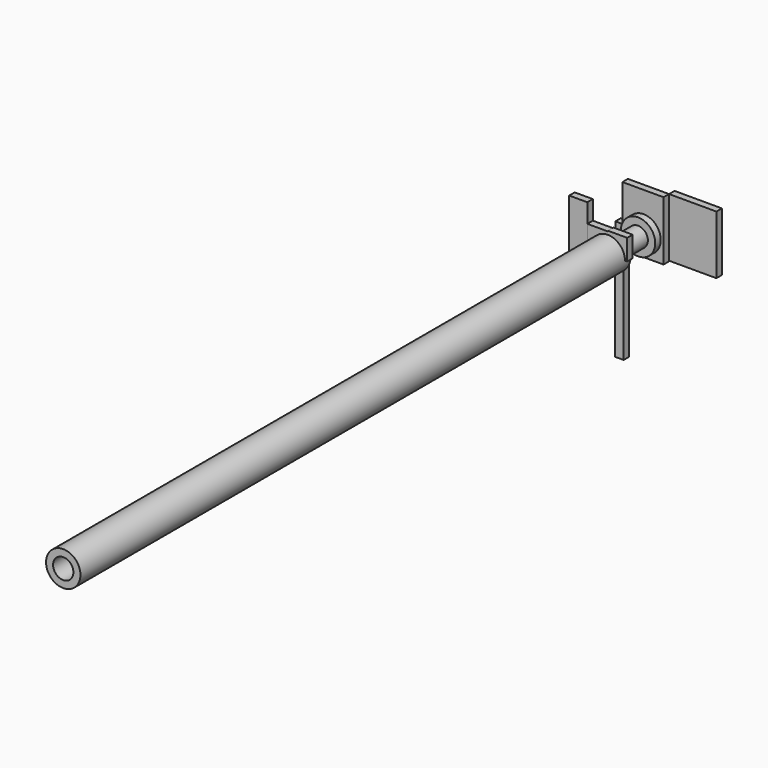
from build123d import *

# Parameters (mm, degrees)
F0_R      = 63.5
F1_DEPTH  = 2540
F2_R      = 37.498798
F3_DEPTH  = 2540.001
F4_R      = 37.498798
F5_DEPTH  = 25.4
F6_R      = 35.790609
F7_DEPTH  = 25.4
F8_R      = 36.398769
F8_R_2    = 36.35133
F8_R_3    = 35.790609
F8_R_4    = 2.350896
F8_R_5    = 3.599335
F9_DEPTH  = 88.995427
F10_R     = 63.5
F11_DEPTH = 25.4
F15_W     = 75.628899
F15_H     = 96.870379
F16_DEPTH = 25.4
F17_W     = 71.739011
F17_H     = 76.93696
F18_DEPTH = 25.4
F19_W     = 66.671423
F19_H     = 220.084563
F20_DEPTH = 25.4
F21_W     = 151.817322
F21_H     = 218.985304
F22_DEPTH = 25.4
F23_W     = 175.12086
F23_H     = 216.846026
F24_DEPTH = 25.4
F25_W     = 32.548204
F25_H     = 368.294932
F26_DEPTH = 25.4
F27_W     = 46.512127
F27_H     = 65.749884
F28_DEPTH = 25.4
F29_W     = 46.512127
F29_H     = 8.113734
F30_DEPTH = 25.4


with BuildPart() as f1:
    # F0 (on Front) → F1 (new body)
    with BuildSketch(Plane.XZ):
        Circle(F0_R)
    extrude(amount=F1_DEPTH)

    # F2 (on face) → F3 (cut, through all)
    with BuildSketch(Plane(origin=(0, 0, 0), x_dir=(-1, 0, 0), z_dir=(0, 1, 0))):
        Circle(F2_R)
    extrude(amount=-F3_DEPTH, mode=Mode.SUBTRACT)

    # F4 (on face) → F5 (join)
    with BuildSketch(Plane(origin=(0, 0, 0), x_dir=(-1, 0, 0), z_dir=(0, 1, 0))):
        Circle(F4_R)
    extrude(amount=-F5_DEPTH)

    # F6 (on face) → F7 (join)
    with BuildSketch(Plane(origin=(0, 0, 0), x_dir=(-1, 0, 0), z_dir=(0, 1, 0))):
        Circle(F6_R)
    extrude(amount=F7_DEPTH)

    # F8 (on face) → F9 (join)
    with BuildSketch(Plane(origin=(0, 25.4, 0), x_dir=(-1, 0, 0), z_dir=(0, 1, 0))):
        Circle(F8_R)
        Circle(F8_R_2, mode=Mode.SUBTRACT)
        Circle(F8_R_3)
        with Locations((-7.241368, -3.599335)):
            Circle(F8_R_4, mode=Mode.SUBTRACT)
        with Locations((0, -3.599335)):
            Circle(F8_R_5, mode=Mode.SUBTRACT)
    extrude(amount=F9_DEPTH)

    # F10 (on face) → F11 (join)
    with BuildSketch(Plane(origin=(0, 114.395427, 0), x_dir=(-1, 0, 0), z_dir=(0, 1, 0))):
        Circle(F10_R)
    extrude(amount=F11_DEPTH)

    # F15 (on face) → F16 (join)
    with BuildSketch(Plane.XZ):
        with Locations((-37.814449, 26.126942)):
            Rectangle(F15_W, F15_H)
    extrude(amount=F16_DEPTH)

    # F17 (on face) → F18 (join)
    with BuildSketch(Plane.XZ):
        with Locations((35.869505, 38.46848)):
            Rectangle(F17_W, F17_H)
    extrude(amount=F18_DEPTH)

    # F21 (on face) → F22 (join)
    with BuildSketch(Plane(origin=(0, 139.795427, 0), x_dir=(-1, 0, 0), z_dir=(0, 1, 0))):
        with Locations((2.101943, 33.055253)):
            Rectangle(F21_W, F21_H)
    extrude(amount=F22_DEPTH)


with BuildPart() as f20:
    # F19 (on Front) → F20 (new body)
    with BuildSketch(Plane.XZ):
        with Locations((-109.109718, 34.777902)):
            Rectangle(F19_W, F19_H)
    extrude(amount=F20_DEPTH)


with BuildPart() as f24:
    # F23 (on face) → F24 (new body)
    with BuildSketch(Plane(origin=(0, 165.195427, 0), x_dir=(-1, 0, 0), z_dir=(0, 1, 0))):
        with Locations((-161.367148, 34.124892)):
            Rectangle(F23_W, F23_H)
    extrude(amount=F24_DEPTH)


with BuildPart() as f26:
    # F25 (on face) → F26 (new body)
    with BuildSketch(Plane(origin=(0, 165.195427, 0), x_dir=(-1, 0, 0), z_dir=(0, 1, 0))):
        with Locations((109.924279, -267.513227)):
            Rectangle(F25_W, F25_H)
    extrude(amount=F26_DEPTH)



with BuildPart() as f28:
    # F27 (on face) → F28 (new body)
    with BuildSketch(Plane(origin=(0, 165.195427, 0), x_dir=(-1, 0, 0), z_dir=(0, 1, 0))):
        with Locations((101.266667, -43.562457)):
            Rectangle(F27_W, F27_H)
    extrude(amount=F28_DEPTH)


with BuildPart() as f26_1:
    add(f26.part)

    add(f28.part)  # F30 merges F28
    # F29 (on face) → F30 (join)
    with BuildSketch(Plane(origin=(0, 190.595427, 0), x_dir=(-1, 0, 0), z_dir=(0, 1, 0))):
        with Locations((101.266667, -80.494266)):
            Rectangle(F29_W, F29_H)
    extrude(amount=F30_DEPTH)


solid = Compound([f1.part, f20.part, f24.part, f26_1.part])
